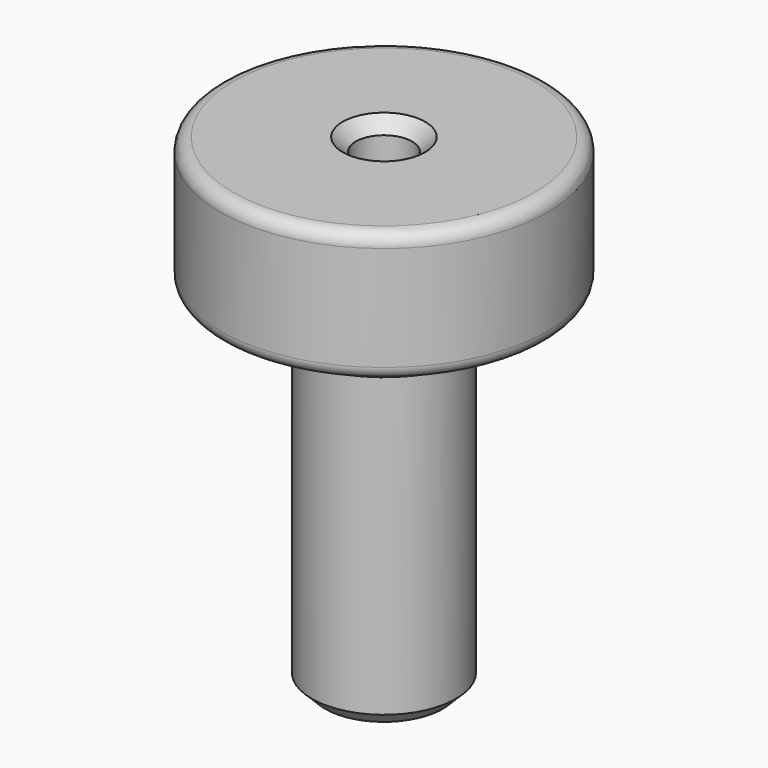
from build123d import *

# Parameters (mm, degrees)
F2_SIZE = 1
F3_R    = 1


with BuildPart() as f1:
    # F0 (on Front) → F1 (revolve)
    with BuildSketch(Plane.XZ):
        Polygon((-5.5, 0), (-2.15, 0), (-2.15, 37), (-12.5, 37), (-12.5, 27), (-8, 27), (-8, 25), (-5.5, 25), align=None)
    revolve(axis=Axis((0, 0, 18.5), (0, 0, -1)))

    # F2
    f2_edges = [f1.edges().sort_by_distance(p)[0] for p in [
        (5.5, 0, 0),
        (2.15, 0, 37),
    ]]
    chamfer(f2_edges, length=F2_SIZE)

    # F3
    f3_edges = [f1.edges().sort_by_distance(p)[0] for p in [
        (12.5, 0, 37),
        (12.5, 0, 27),
    ]]
    fillet(f3_edges, radius=F3_R)


solid = f1.part
